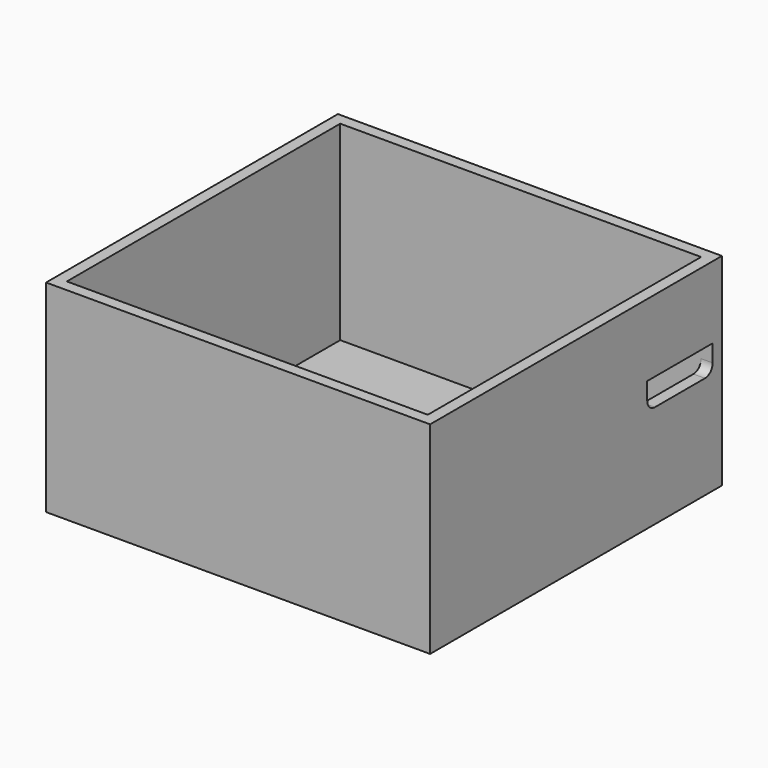
from build123d import *

# Parameters (mm, degrees)
F0_W     = 39.9
F0_H     = 37.9
F0_W_2   = 37.5
F0_H_2   = 35.5
F1_DEPTH = 1.2
F2_DEPTH = 21
F4_DEPTH = 2


with BuildPart() as f1:
    # F0 (on Top) → F1 (new body)
    with BuildSketch(Plane.XY):
        with Locations((1.249999, 1.234054)):
            Rectangle(F0_W, F0_H)
        with Locations((1.249999, 1.234054)):
            Rectangle(F0_W_2, F0_H_2, mode=Mode.SUBTRACT)
        with Locations((1.249999, 1.234054)):
            Rectangle(F0_W_2, F0_H_2)
    extrude(amount=F1_DEPTH)


with BuildPart() as f2:
    # F0 (on Top) → F2 (new body)
    with BuildSketch(Plane.XY):
        with Locations((1.249999, 1.234054)):
            Rectangle(F0_W, F0_H)
        with Locations((1.249999, 1.234054)):
            Rectangle(F0_W_2, F0_H_2, mode=Mode.SUBTRACT)
    extrude(amount=F2_DEPTH)

    # F3 (on face) → F4 (cut)
    with BuildSketch(Plane.YZ.offset(21.199999)):
        with BuildLine():
            ThreePointArc((10.484054, 11.7), (10.776948, 10.992893), (11.484054, 10.7))
            Line((11.484054, 10.7), (17.984054, 10.7))
            ThreePointArc((17.984054, 10.7), (18.691161, 10.992893), (18.984054, 11.7))
            Line((18.984054, 11.7), (18.984054, 13.5))
            Line((18.984054, 13.5), (10.484054, 13.5))
            Line((10.484054, 13.5), (10.484054, 11.7))
        make_face()
    extrude(amount=-F4_DEPTH, mode=Mode.SUBTRACT)


solid = Compound([f1.part, f2.part])
